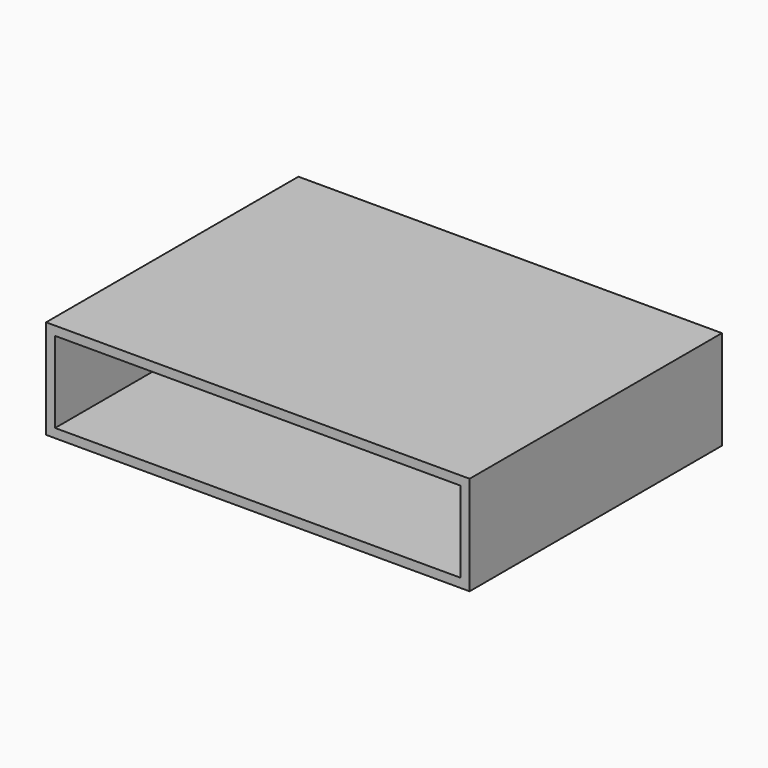
from build123d import *

# Parameters (mm, degrees)
F0_W     = 94
F0_H     = 22
F0_W_2   = 90
F0_H_2   = 18
F1_DEPTH = 35


with BuildPart() as f1:
    # F0 (on Front) → F1 (new body, symmetric)
    with BuildSketch(Plane.XZ):
        with Locations((2.996015, 11)):
            Rectangle(F0_W, F0_H)
        with Locations((2.996015, 11)):
            Rectangle(F0_W_2, F0_H_2, mode=Mode.SUBTRACT)
    extrude(amount=F1_DEPTH, both=True)


solid = f1.part
